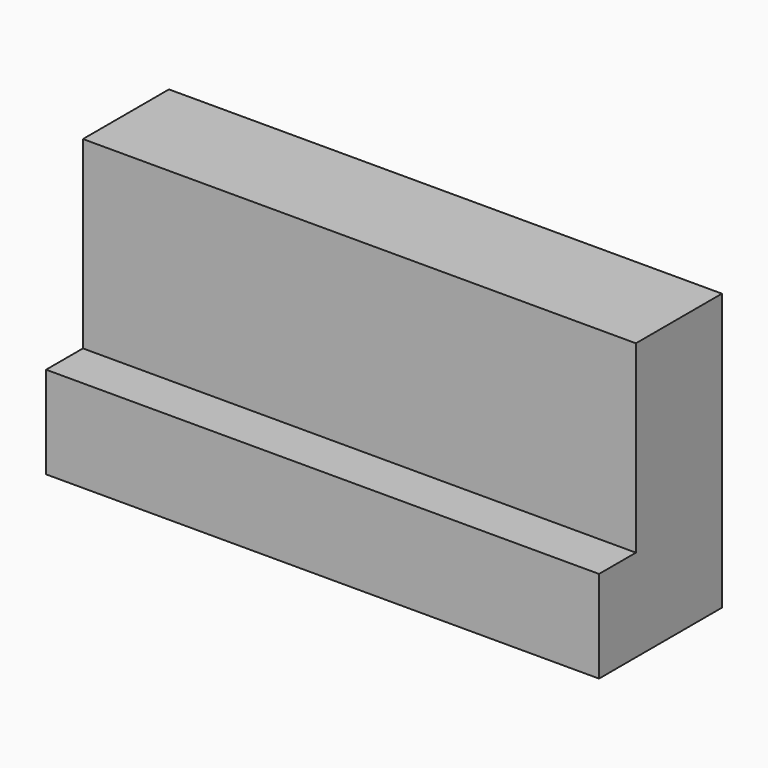
from build123d import *

# Parameters (mm, degrees)
F0_W     = 228.6
F0_H     = 63.5
F1_DEPTH = 114.3
F2_W     = 19.05
F2_H     = 76.2
F3_DEPTH = 228.601


with BuildPart() as f1:
    # F0 (on Top) → F1 (new body)
    with BuildSketch(Plane.XY):
        with Locations((114.3, 31.75)):
            Rectangle(F0_W, F0_H)
    extrude(amount=F1_DEPTH)

    # F2 (on face) → F3 (cut, through all)
    with BuildSketch(Plane.YZ.offset(228.6)):
        with Locations((9.525, 76.2)):
            Rectangle(F2_W, F2_H)
    extrude(amount=-F3_DEPTH, mode=Mode.SUBTRACT)


solid = f1.part
